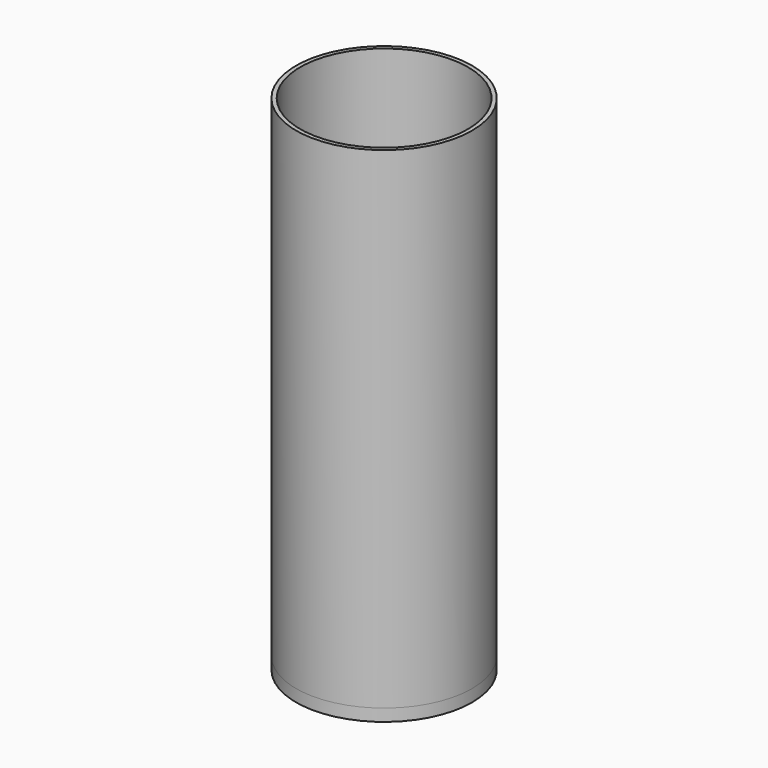
from build123d import *

# Parameters (mm, degrees)
F0_R     = 34.9228437671
F1_DEPTH = 5.14146
F2_R     = 36.6253816168
F2_R_2   = 34.9228437671
F3_DEPTH = 204.42603
F4_DEPTH = 5.06109


with BuildPart() as f1:
    # F0 (on Top) → F1 (new body)
    with BuildSketch(Plane.XY):
        Circle(F0_R)
    extrude(amount=F1_DEPTH)


with BuildPart() as f3:
    # F2 (on face) → F3 (new body)
    with BuildSketch(Plane.XY.offset(5.14146)):
        Circle(F2_R)
        Circle(F2_R_2, mode=Mode.SUBTRACT)
    extrude(amount=F3_DEPTH)


with BuildPart() as f4:
    # F4 (new): a face of the model
    f4_faces = [f3.part.faces().sort_by_distance(p)[0] for p in [
        (-35.5894593887, 0, 5.14146),
    ]]
    extrude(f4_faces, amount=F4_DEPTH)


solid = Compound([f1.part, f3.part, f4.part])
